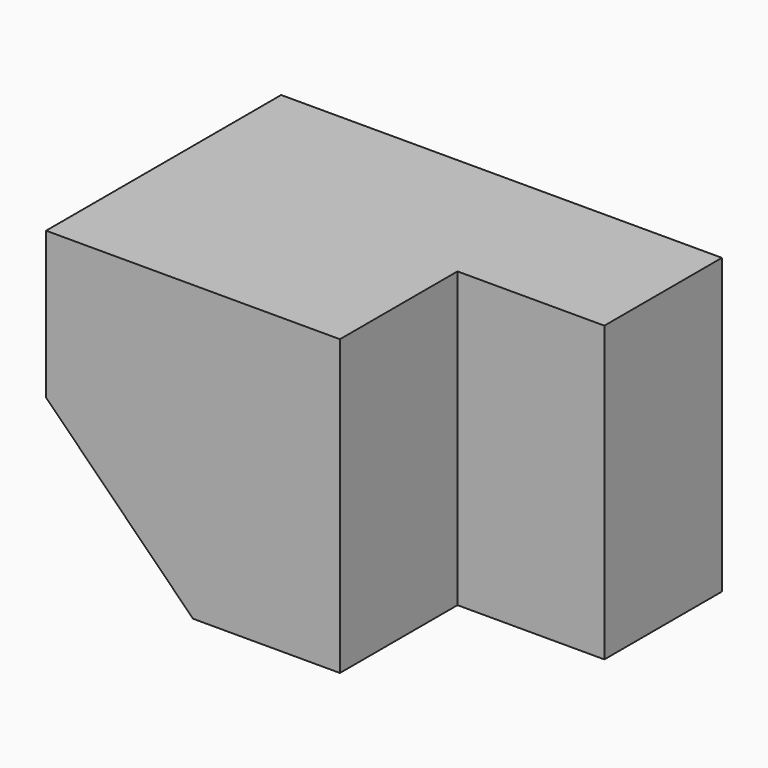
from build123d import *

# Parameters (mm, degrees)
F1_DEPTH = 20
F2_W     = 10
F2_H     = 20
F3_DEPTH = 10


with BuildPart() as f1:
    # F0 (on Front) → F1 (new body)
    with BuildSketch(Plane.XZ):
        Polygon((20, 0), (0, 0), (0, -10), (10, -20), (20, -20), align=None)
    extrude(amount=F1_DEPTH)

    # F2 (on Front) → F3 (join)
    with BuildSketch(Plane.XZ):
        with Locations((25, -10)):
            Rectangle(F2_W, F2_H)
    extrude(amount=F3_DEPTH)


solid = f1.part
